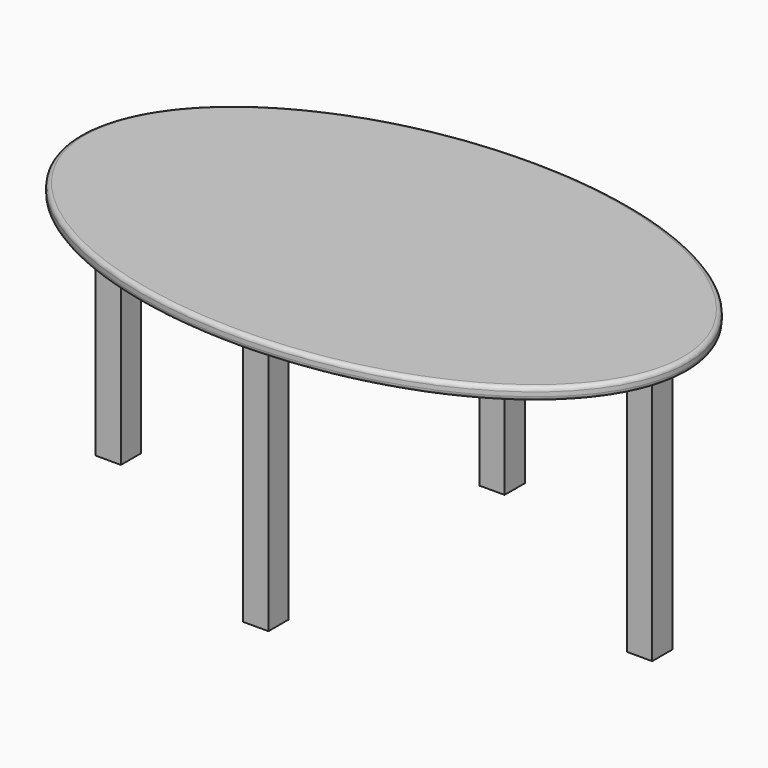
from build123d import *

# Parameters (mm, degrees)
F1_DEPTH  = 19.05
F2_R      = 6.35
F3_W      = 38.1
F3_H      = 38.100005
F4_DEPTH  = 387.35
F5_W      = 38.1
F5_H      = 38.1
F6_DEPTH  = 387.35
F7_W      = 38.1
F7_H      = 38.1
F8_DEPTH  = 387.35
F9_W      = 38.1
F9_H      = 38.1
F10_DEPTH = 387.35


with BuildPart() as f1:
    # F0 (on Top) → F1 (new body)
    with BuildSketch(Plane.XY):
        with BuildLine():
            add(Edge.make_bspline(
                [(457.2, 0), (457.2, 483.934996), (-228.6, 241.967498), (-914.4, 0), (-228.6, -241.967498), (457.2, -483.934996), (457.2, 0)],
                knots=[0, 0, 0, 2.094395, 2.094395, 4.18879, 4.18879, 6.283185, 6.283185, 6.283185], degree=2, weights=[1, 0.5, 1, 0.5, 1, 0.5, 1]))
        make_face()
    extrude(amount=F1_DEPTH)

    # F2
    f2_edges = [f1.edges().sort_by_distance(p)[0] for p in [
        (-457.2, 4e-06, 19.05),
        (-457.2, 4e-06, 0),
    ]]
    fillet(f2_edges, radius=F2_R)


with BuildPart() as f4:
    # F3 (on face) → F4 (new body)
    with BuildSketch(Plane(origin=(0, 0, 0), x_dir=(1, 0, 0), z_dir=(0, 0, -1))):
        with Locations((400.05, 2e-06)):
            Rectangle(F3_W, F3_H)
    extrude(amount=F4_DEPTH)


with BuildPart() as f6:
    # F5 (on face) → F6 (new body)
    with BuildSketch(Plane(origin=(0, 0, 0), x_dir=(1, 0, 0), z_dir=(0, 0, -1))):
        with Locations((-400.05, 0)):
            Rectangle(F5_W, F5_H)
    extrude(amount=F6_DEPTH)


with BuildPart() as f8:
    # F7 (on face) → F8 (new body)
    with BuildSketch(Plane(origin=(0, 0, 0), x_dir=(1, 0, 0), z_dir=(0, 0, -1))):
        with Locations((0, 222.25)):
            Rectangle(F7_W, F7_H)
    extrude(amount=F8_DEPTH)


with BuildPart() as f10:
    # F9 (on face) → F10 (new body)
    with BuildSketch(Plane(origin=(0, 0, 0), x_dir=(1, 0, 0), z_dir=(0, 0, -1))):
        with Locations((0, -222.25)):
            Rectangle(F9_W, F9_H)
    extrude(amount=F10_DEPTH)


solid = Compound([f1.part, f4.part, f6.part, f8.part, f10.part])
